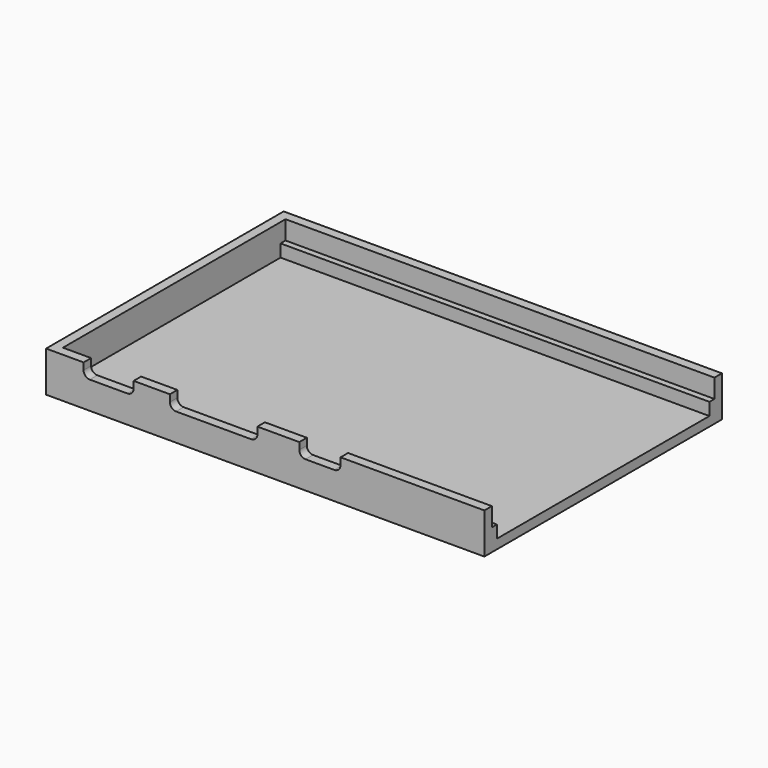
from build123d import *

# Parameters (mm, degrees)
F0_W     = 89.027
F0_H     = 60.325
F1_DEPTH = 1.905
F3_DEPTH = 6.35
F4_W     = 87.122
F4_H     = 1.27
F5_DEPTH = 2.54
F6_W     = 10.16
F6_H     = 2.667
F6_W_2   = 17.78
F6_W_3   = 8.382
F7_DEPTH = 25.4
F8_R     = 1.27


with BuildPart() as f1:
    # F0 (on Top) → F1 (new body)
    with BuildSketch(Plane.XY):
        with Locations((-1.8415, 0)):
            Rectangle(F0_W, F0_H)
    extrude(amount=-F1_DEPTH)

    # F2 (on face) → F3 (join)
    with BuildSketch(Plane.XY):
        Polygon((-44.45, -28.2575), (-44.45, 28.2575), (42.672, 28.2575), (42.672, 30.1625), (-46.355, 30.1625), (-46.355, -30.1625), (42.672, -30.1625), (42.672, -28.2575), align=None)
    extrude(amount=F3_DEPTH)

    # F4 (on face) → F5 (join)
    with BuildSketch(Plane.XY):
        with Locations((-0.889, 27.6225)):
            Rectangle(F4_W, F4_H)
        with Locations((-0.889, -27.6225)):
            Rectangle(F4_W, F4_H)
    extrude(amount=F5_DEPTH)

    # F6 (on face) → F7 (cut)
    with BuildSketch(Plane.XZ.offset(30.1625)):
        with Locations((-33.655, 5.0165)):
            Rectangle(F6_W, F6_H)
        with Locations((-12.319, 5.0165)):
            Rectangle(F6_W_2, F6_H)
        with Locations((9.271, 5.0165)):
            Rectangle(F6_W_3, F6_H)
    extrude(amount=-F7_DEPTH, mode=Mode.SUBTRACT)

    # F8
    f8_edges = [f1.edges().sort_by_distance(p)[0] for p in [
        (-38.735, -29.21, 3.683),
        (-28.575, -29.21, 3.683),
        (5.08, -29.21, 3.683),
        (13.462, -29.21, 3.683),
        (-3.429, -29.21, 3.683),
        (-21.209, -29.21, 3.683),
    ]]
    fillet(f8_edges, radius=F8_R)


solid = f1.part
